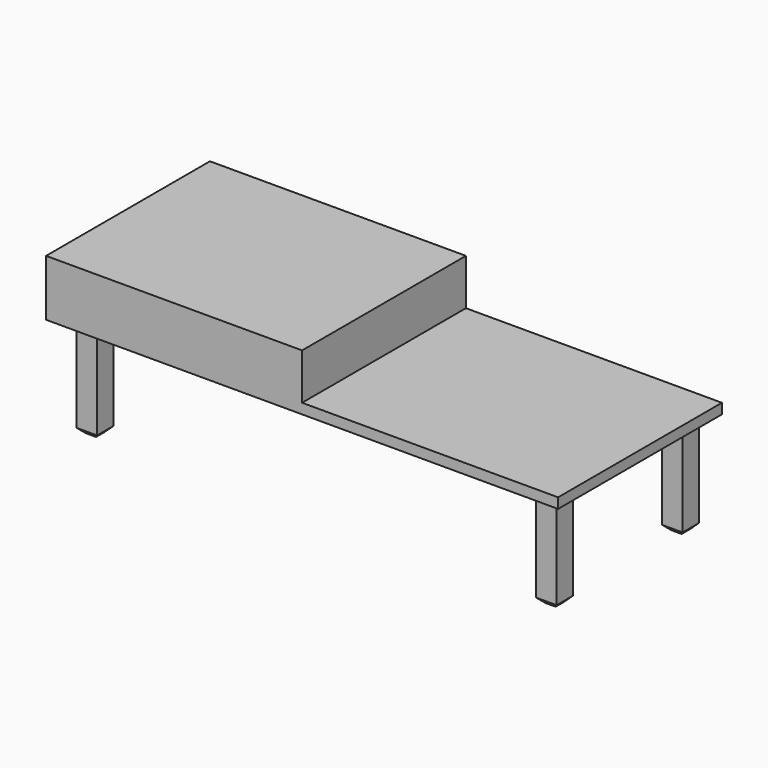
from build123d import *

# Parameters (mm, degrees)
F0_W     = 127
F0_H     = 50.8
F1_DEPTH = 25.4
F2_W     = 63.5
F2_H     = 50.8
F3_DEPTH = 22.86
F4_W     = 5.08
F4_H     = 5.080003
F4_H_2   = 5.08
F5_DEPTH = 25.4
F6_SIZE  = 1.27
F7_W     = 63.5
F7_H     = 11.43
F8_DEPTH = 62.484


with BuildPart() as f1:
    # F0 (on Top) → F1 (new body)
    with BuildSketch(Plane.XY):
        with Locations((-0.232585, 9.525337)):
            Rectangle(F0_W, F0_H)
    extrude(amount=F1_DEPTH)

    # F2 (on face) → F3 (cut)
    with BuildSketch(Plane.XY.offset(25.4)):
        with Locations((31.517415, 9.525337)):
            Rectangle(F2_W, F2_H)
    extrude(amount=-F3_DEPTH, mode=Mode.SUBTRACT)

    # F4 (on face) → F5 (join)
    with BuildSketch(Plane(origin=(0, 0, 0), x_dir=(1, 0, 0), z_dir=(0, 0, -1))):
        with Locations((-57.216454, 8.838313)):
            Rectangle(F4_W, F4_H)
        with Locations((-57.216454, -30.235119)):
            Rectangle(F4_W, F4_H_2)
        with Locations((56.765015, 8.838313)):
            Rectangle(F4_W, F4_H)
        with Locations((56.765015, -30.235119)):
            Rectangle(F4_W, F4_H_2)
    extrude(amount=F5_DEPTH)

    # F6
    f6_edges = [f1.edges().sort_by_distance(p)[0] for p in [
        (-54.676454, 30.235119, -25.4),
        (-57.216454, 27.695119, -25.4),
        (-59.756454, 30.235119, -25.4),
        (-57.216454, 32.775119, -25.4),
        (59.305015, 30.235119, -25.4),
        (56.765015, 32.775119, -25.4),
        (54.225015, 30.235119, -25.4),
        (56.765015, 27.695119, -25.4),
        (59.305015, -8.838314, -25.4),
        (56.765015, -6.298312, -25.4),
        (54.225015, -8.838314, -25.4),
        (56.765015, -11.378315, -25.4),
        (-54.676454, -8.838314, -25.4),
        (-57.216454, -6.298312, -25.4),
        (-59.756454, -8.838314, -25.4),
        (-57.216454, -11.378315, -25.4),
    ]]
    chamfer(f6_edges, length=F6_SIZE)

    # F7 (on face) → F8 (cut)
    with BuildSketch(Plane.XZ.offset(15.874663)):
        with Locations((-31.982585, 19.685)):
            Rectangle(F7_W, F7_H)
    extrude(amount=-F8_DEPTH, mode=Mode.SUBTRACT)


solid = f1.part
